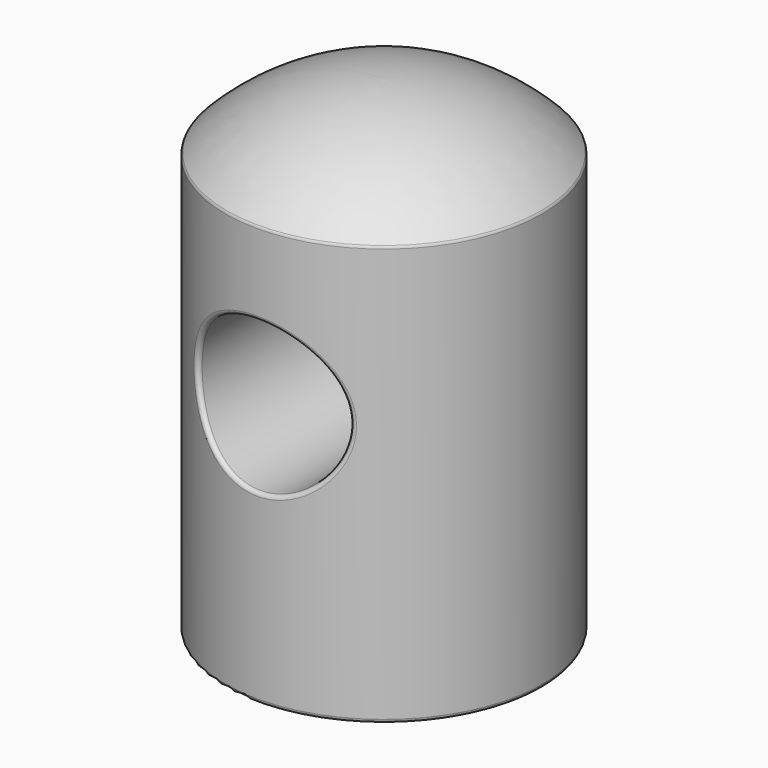
from build123d import *

# Parameters (mm, degrees)
F1_R     = 10.31875
F3_DEPTH = 21.591
F4_DEPTH = 21.591
F5_R     = 0.508


with BuildPart() as f2:
    # F0 (on Front) → F2 (revolve)
    with BuildSketch(Plane.XZ):
        with BuildLine():
            Line((0, -55.421147), (0, 10.810273))
            ThreePointArc((0, 10.810273), (-11.711109, 8.447503), (-21.59, 1.728853))
            Line((-21.59, 1.728853), (-21.59, -55.421147))
            Line((-21.59, -55.421147), (0, -55.421147))
        make_face()
    revolve(axis=Axis((0, 0, -22.274147), (0, 0, -1)))

    # F1 (on Front) → F3 (cut, through all)
    with BuildSketch(Plane.XZ):
        with Locations((0, -19.78718)):
            Circle(F1_R)
    extrude(amount=-F3_DEPTH, mode=Mode.SUBTRACT)

    # F1 (on Front) → F4 (cut, through all)
    with BuildSketch(Plane.XZ):
        with Locations((0, -19.78718)):
            Circle(F1_R)
    extrude(amount=F4_DEPTH, mode=Mode.SUBTRACT)

    # F5
    f5_edges = [f2.edges().sort_by_distance(p)[0] for p in [
        (21.59, 0, 1.728853),
        (-10.31875, 18.96448, -19.78718),
        (-10.31875, -18.96448, -19.78718),
        (21.59, 0, -55.421147),
    ]]
    fillet(f5_edges, radius=F5_R)


solid = f2.part
